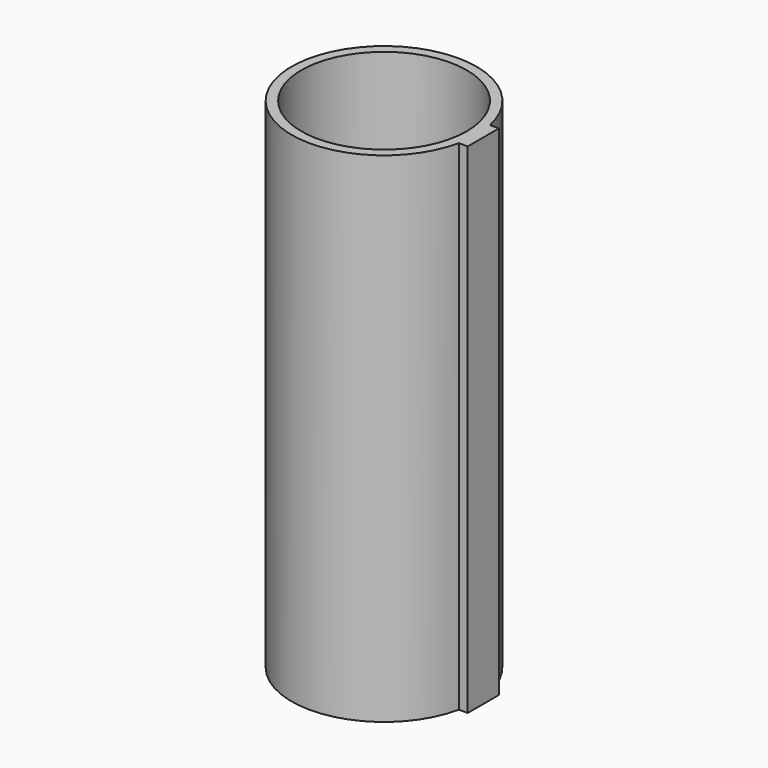
from build123d import *

# Parameters (mm, degrees)
F0_R     = 8.5
F1_DEPTH = 50
F2_DEPTH = 1.25


with BuildPart() as f1:
    # F0 (on Top) → F1 (new body)
    with BuildSketch(Plane.XY):
        with BuildLine():
            ThreePointArc((9.2870878105, -2), (9.4466219941, -1.0056504861), (9.5, 0))
            ThreePointArc((9.5, 0), (9.4466219941, 1.0056504861), (9.2870878105, 2))
            Line((9.2870878105, 2), (8.8004730493, 2))
            Line((8.8004730493, 2), (8.8004730493, -2))
            Line((8.8004730493, -2), (9.2870878105, -2))
        make_face()
        with BuildLine():
            ThreePointArc((9.2870878105, 2), (9.4466219941, 1.0056504861), (9.5, 0))
            ThreePointArc((9.5, 0), (9.4466219941, -1.0056504861), (9.2870878105, -2))
            Line((9.2870878105, -2), (10.1995269507, -2))
            Line((10.1995269507, -2), (10.1995269507, 2))
            Line((10.1995269507, 2), (9.2870878105, 2))
        make_face()
        with BuildLine():
            Line((8.8004730493, 2), (9.2870878105, 2))
            ThreePointArc((9.2870878105, 2), (-9.5, 0), (9.2870878105, -2))
            Line((9.2870878105, -2), (8.8004730493, -2))
            Line((8.8004730493, -2), (8.8004730493, 2))
        make_face()
        Circle(F0_R, mode=Mode.SUBTRACT)
    extrude(amount=F1_DEPTH)

    # F0 (on Top) → F2 (join)
    with BuildSketch(Plane.XY):
        with BuildLine():
            Line((8.8004730493, 2), (9.2870878105, 2))
            ThreePointArc((9.2870878105, 2), (-9.5, 0), (9.2870878105, -2))
            Line((9.2870878105, -2), (8.8004730493, -2))
            Line((8.8004730493, -2), (8.8004730493, 2))
        make_face()
        Circle(F0_R, mode=Mode.SUBTRACT)
        with BuildLine():
            Line((8.8004730493, 2), (9.2870878105, 2))
            ThreePointArc((9.2870878105, 2), (-9.5, 0), (9.2870878105, -2))
            Line((9.2870878105, -2), (8.8004730493, -2))
            Line((8.8004730493, -2), (8.8004730493, 2))
        make_face()
        Circle(F0_R, mode=Mode.SUBTRACT)
        Circle(F0_R)
        with BuildLine():
            ThreePointArc((9.2870878105, 2), (9.4466219941, 1.0056504861), (9.5, 0))
            ThreePointArc((9.5, 0), (9.4466219941, -1.0056504861), (9.2870878105, -2))
            Line((9.2870878105, -2), (10.1995269507, -2))
            Line((10.1995269507, -2), (10.1995269507, 2))
            Line((10.1995269507, 2), (9.2870878105, 2))
        make_face()
        with BuildLine():
            ThreePointArc((9.2870878105, -2), (9.4466219941, -1.0056504861), (9.5, 0))
            ThreePointArc((9.5, 0), (9.4466219941, 1.0056504861), (9.2870878105, 2))
            Line((9.2870878105, 2), (8.8004730493, 2))
            Line((8.8004730493, 2), (8.8004730493, -2))
            Line((8.8004730493, -2), (9.2870878105, -2))
        make_face()
    extrude(amount=-F2_DEPTH)


solid = f1.part
